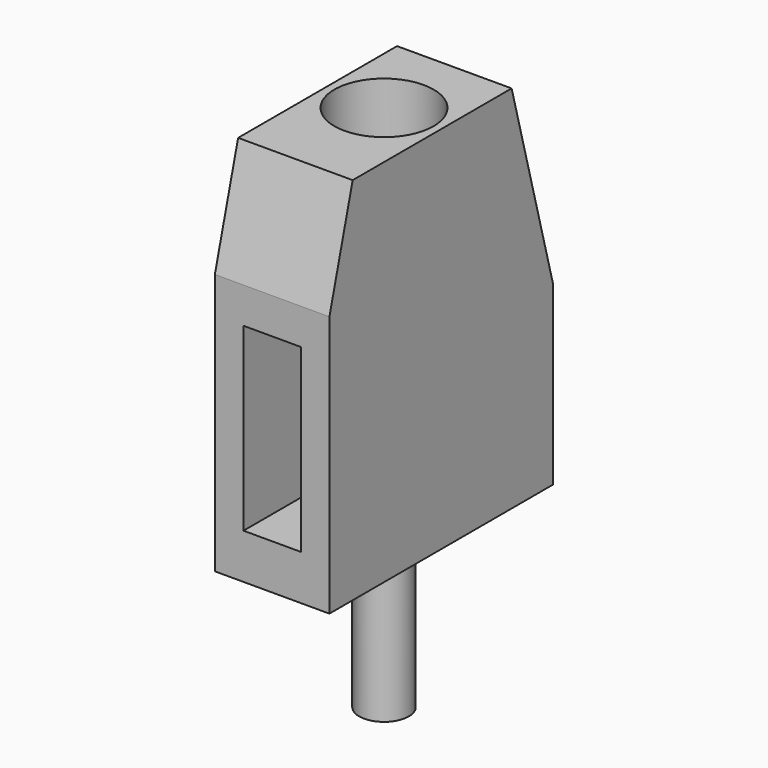
from build123d import *

# Parameters (mm, degrees)
CYLINDER005_R           = 0.55
CYLINDER005_DEPTH       = 3.5
CYLINDER004_R           = 1.1
CYLINDER004_DEPTH       = 3.5
CUBE011_W               = 4
CUBE011_H               = 6
CUBE011_DEPTH           = 9
CUBE011_PLACEMENT_ANGLE = 15
CUBE010_W               = 4
CUBE010_H               = 6
CUBE010_DEPTH           = 8
CUBE010_PLACEMENT_ANGLE = 15
CUBE009_W               = 1.27
CUBE009_H               = 3
CUBE009_DEPTH           = 4
CUBE008_W               = 2.54
CUBE008_H               = 6.2
CUBE008_DEPTH           = 8.2


with BuildPart() as cylinder005:
    # cylinder005 → cylinder005 (new body)
    with BuildSketch(Plane(origin=(1.27, 3.1, -3.5), x_dir=(1, 0, 0), z_dir=(0, 0, 1))):
        Circle(CYLINDER005_R)
    extrude(amount=CYLINDER005_DEPTH)


with BuildPart() as cylinder004:
    # cylinder004 → cylinder004 (new body)
    with BuildSketch(Plane(origin=(1.27, 3.1, 5), x_dir=(1, 0, 0), z_dir=(0, 0, 1))):
        Circle(CYLINDER004_R)
    extrude(amount=CYLINDER004_DEPTH)


with BuildPart() as cube011:
    # cube011 → cube011 (new body)
    with BuildSketch(Plane.XY):
        with Locations((2, 3)):
            Rectangle(CUBE011_W, CUBE011_H)
    extrude(amount=CUBE011_DEPTH)


with BuildPart() as cube011_1:
    # cube011 placement: moved
    add(cube011.part.moved(Location((-1, -7.244444, 1.941143))).rotate(Axis((-1, -7.244444, 1.941143), (-1, 0, 0)), CUBE011_PLACEMENT_ANGLE))


with BuildPart() as cube010:
    # cube010 → cube010 (new body)
    with BuildSketch(Plane.XY):
        with Locations((2, 3)):
            Rectangle(CUBE010_W, CUBE010_H)
    extrude(amount=CUBE010_DEPTH)


with BuildPart() as cube010_1:
    # cube010 placement: moved
    add(cube010.part.moved(Location((-1, 6.761481, 1.811733))).rotate(Axis((-1, 6.761481, 1.811733), (1, 0, 0)), CUBE010_PLACEMENT_ANGLE))


with BuildPart() as cube009:
    # cube009 → cube009 (new body)
    with BuildSketch(Plane(origin=(0.635, -1, 1), x_dir=(1, 0, 0), z_dir=(0, 0, 1))):
        with Locations((0.635, 1.5)):
            Rectangle(CUBE009_W, CUBE009_H)
    extrude(amount=CUBE009_DEPTH)


with BuildPart() as group002:
    # cube008 → cube008 (new body)
    with BuildSketch(Plane.XY):
        with Locations((1.27, 3.1)):
            Rectangle(CUBE008_W, CUBE008_H)
    extrude(amount=CUBE008_DEPTH)

    # difference008: cut cube009
    add(cube009.part, mode=Mode.SUBTRACT)

    # difference009: cut cube010
    add(cube010_1.part, mode=Mode.SUBTRACT)

    # difference010: cut cube011
    add(cube011_1.part, mode=Mode.SUBTRACT)

    # difference011: cut cylinder004
    add(cylinder004.part, mode=Mode.SUBTRACT)

    # Group002: union cylinder005
    add(cylinder005.part)


with BuildPart() as group002_1:
    # Group002 placement: moved
    add(group002.part.moved(Location((5.08, 0, 0))))


solid = group002_1.part
